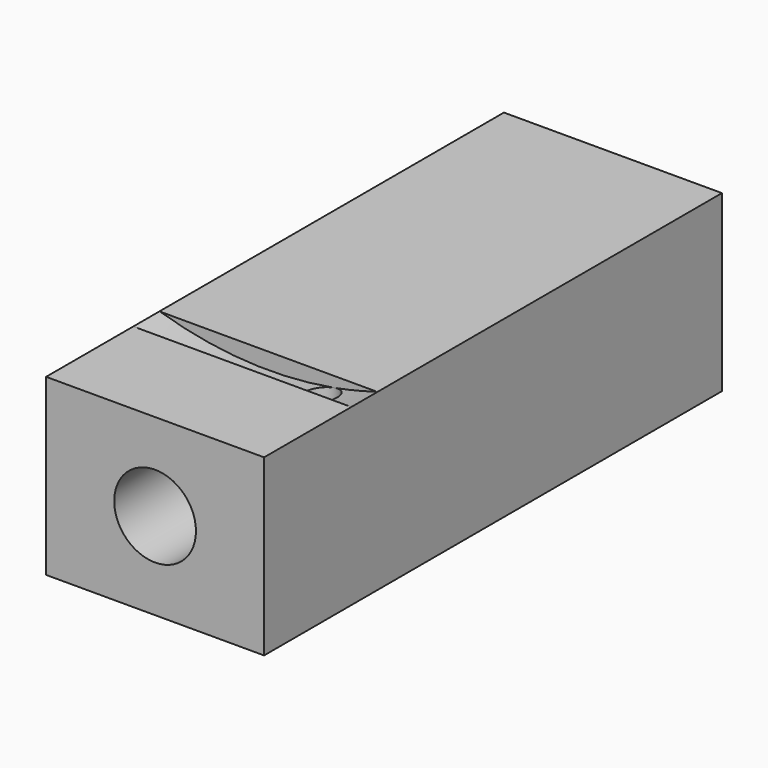
from build123d import *

# Parameters (mm, degrees)
F0_W      = 40
F0_H      = 32
F1_DEPTH  = 105
F2_R      = 7.5
F3_DEPTH  = 75
F4_R      = 3
F5_DEPTH  = 105.001
F7_R      = 67.5
F8_DEPTH  = 6
F10_R     = 3
F11_DEPTH = 15


with BuildPart() as f1:
    # F0 (on Front) → F1 (new body)
    with BuildSketch(Plane.XZ):
        with Locations((-20, 16)):
            Rectangle(F0_W, F0_H)
    extrude(amount=-F1_DEPTH)

    # F2 (on face) → F3 (cut)
    with BuildSketch(Plane.XZ):
        with Locations((-20, 16)):
            Circle(F2_R)
    extrude(amount=-F3_DEPTH, mode=Mode.SUBTRACT)

    # F4 (on Front) → F5 (cut, through all)
    with BuildSketch(Plane.XZ):
        with Locations((-20, 11.5)):
            Circle(F4_R)
    extrude(amount=-F5_DEPTH, mode=Mode.SUBTRACT)

    # F7 (on offset) → F8 (cut)
    with BuildSketch(Plane.XZ.offset(-20)):
        with Locations((-20, 96.5)):
            Circle(F7_R)
    extrude(amount=-F8_DEPTH, mode=Mode.SUBTRACT)

    # F10 (on offset) → F11 (cut)
    with BuildSketch(Plane.XY.offset(32)):
        with Locations((-8, 23)):
            Circle(F10_R)
    extrude(amount=-F11_DEPTH, mode=Mode.SUBTRACT)


solid = f1.part
